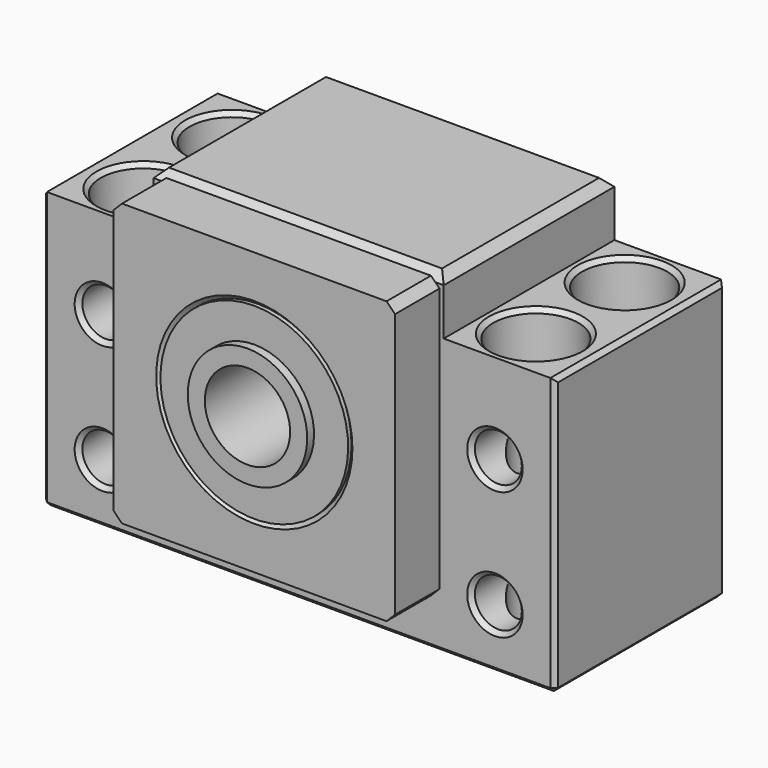
from build123d import *

# Parameters (mm, degrees)
SKETCH_R        = 11
PAD_DEPTH       = 12.5
SKETCH001_R     = 2.75
POCKET_DEPTH    = 25.001
SKETCH002_R     = 5
POCKET001_DEPTH = 7
SKETCH003_R     = 2.75
POCKET002_DEPTH = 39.001
CHAMFER_SIZE    = 1
CHAMFER005_SIZE = 0.5
CHAMFER006_SIZE = 0.5
CHAMFER007_SIZE = 0.5
CHAMFER008_SIZE = 0.5
CHAMFER009_SIZE = 0.5
SKETCH004_W     = 33
SKETCH004_H     = 33
SKETCH004_R     = 11
PAD001_DEPTH    = 6.5
CHAMFER003_SIZE = 1
CHAMFER004_SIZE = 0.5


with BuildPart() as bearing:
    # Sketch005 → Revolution (revolve)
    with BuildSketch(Plane.YZ):
        Polygon((-20, 27), (13.5, 27), (13.5, 29), (12.5, 29), (12.5, 33), (-19, 33), (-19, 29), (-20, 29), align=None)
    revolve(axis=Axis((0, -30, 22), (0, 1, 0)))


with BuildPart() as housing_bearing_hole_chamfer:
    # Sketch → Pad (new body, symmetric)
    with BuildSketch(Plane.XZ):
        Polygon((-30, 0), (-30, 32.5), (-17, 32.5), (-17, 39), (17, 39), (17, 32.5), (30, 32.5), (30, 0), align=None)
        with Locations((0, 22)):
            Circle(SKETCH_R, mode=Mode.SUBTRACT)
    extrude(amount=PAD_DEPTH, both=True)

    # Sketch001 → Pocket (cut, through all)
    with BuildSketch(Plane.XZ.offset(12.5)):
        with Locations((-23, 22)):
            Circle(SKETCH001_R)
        with Locations((23, 22)):
            Circle(SKETCH001_R)
        with Locations((-23, 7)):
            Circle(SKETCH001_R)
        with Locations((23, 7)):
            Circle(SKETCH001_R)
    extrude(amount=-POCKET_DEPTH, mode=Mode.SUBTRACT)

    # Sketch002 → Pocket001 (cut)
    with BuildSketch(Plane(origin=(0, 0, 32.5), x_dir=(-1, 0, 0), z_dir=(0, 0, 1))):
        with Locations((-23, 6.5)):
            Circle(SKETCH002_R)
        with Locations((23, 6.5)):
            Circle(SKETCH002_R)
        with Locations((-23, -6.5)):
            Circle(SKETCH002_R)
        with Locations((23, -6.5)):
            Circle(SKETCH002_R)
    extrude(amount=-POCKET001_DEPTH, mode=Mode.SUBTRACT)

    # Sketch003 → Pocket002 (cut, through all)
    with BuildSketch(Plane(origin=(0, 0, 0), x_dir=(1, 0, 0), z_dir=(0, 0, -1))):
        with Locations((-23, 6.5)):
            Circle(SKETCH003_R)
        with Locations((23, 6.5)):
            Circle(SKETCH003_R)
        with Locations((-23, -6.5)):
            Circle(SKETCH003_R)
        with Locations((23, -6.5)):
            Circle(SKETCH003_R)
    extrude(amount=-POCKET002_DEPTH, mode=Mode.SUBTRACT)

    # Chamfer
    chamfer_edges = [housing_bearing_hole_chamfer.edges().sort_by_distance(p)[0] for p in [
        (17, 0, 39),
        (0, 12.5, 39),
        (-17, 0, 39),
        (0, -12.5, 39),
    ]]
    chamfer(chamfer_edges, length=CHAMFER_SIZE)

    # Chamfer005
    chamfer005_edges = [housing_bearing_hole_chamfer.edges().sort_by_distance(p)[0] for p in [
        (30, -12.5, 16.25),
        (30, 0, 32.5),
        (30, 12.5, 16.25),
        (30, 0, 0),
        (0, -12.5, 0),
        (0, 12.5, 0),
        (-30, 0, 0),
        (-30, -12.5, 16.25),
        (-30, 12.5, 16.25),
        (-30, 0, 32.5),
    ]]
    chamfer(chamfer005_edges, length=CHAMFER005_SIZE)

    # Chamfer006
    chamfer006_edges = [housing_bearing_hole_chamfer.edges().sort_by_distance(p)[0] for p in [
        (-18, -6.5, 32.5),
        (-18, 6.5, 32.5),
        (28, 6.5, 32.5),
        (28, -6.5, 32.5),
    ]]
    chamfer(chamfer006_edges, length=CHAMFER006_SIZE)

    # Chamfer007
    chamfer007_edges = [housing_bearing_hole_chamfer.edges().sort_by_distance(p)[0] for p in [
        (-25.75, -6.5, 0),
        (20.25, -6.5, 0),
        (20.25, 6.5, 0),
        (-25.75, 6.5, 0),
    ]]
    chamfer(chamfer007_edges, length=CHAMFER007_SIZE)

    # Chamfer008
    chamfer008_edges = [housing_bearing_hole_chamfer.edges().sort_by_distance(p)[0] for p in [
        (20.25, -12.5, 22),
        (-25.75, -12.5, 22),
        (-25.75, -12.5, 7),
        (20.25, -12.5, 7),
        (20.25, 12.5, 22),
        (20.25, 12.5, 7),
        (-25.75, 12.5, 22),
        (-25.75, 12.5, 7),
    ]]
    chamfer(chamfer008_edges, length=CHAMFER008_SIZE)

    # Chamfer009
    chamfer009_edges = [housing_bearing_hole_chamfer.edges().sort_by_distance(p)[0] for p in [
        (-11, 12.5, 22),
    ]]
    chamfer(chamfer009_edges, length=CHAMFER009_SIZE)


with BuildPart() as bk10:
    # Sketch004 → Pad001 (new body)
    with BuildSketch(Plane.XZ.offset(12.5)):
        with Locations((0, 22)):
            Rectangle(SKETCH004_W, SKETCH004_H)
        with Locations((0, 22)):
            Circle(SKETCH004_R, mode=Mode.SUBTRACT)
    extrude(amount=PAD001_DEPTH)

    # Chamfer003
    chamfer003_edges = [bk10.edges().sort_by_distance(p)[0] for p in [
        (16.5, -15.75, 38.5),
        (-16.5, -15.75, 38.5),
        (-16.5, -15.75, 5.5),
        (16.5, -15.75, 5.5),
    ]]
    chamfer(chamfer003_edges, length=CHAMFER003_SIZE)

    # Chamfer004
    chamfer004_edges = [bk10.edges().sort_by_distance(p)[0] for p in [
        (-11, -19, 22),
    ]]
    chamfer(chamfer004_edges, length=CHAMFER004_SIZE)

    # Fusion: union housing-bearing-hole-chamfer
    add(housing_bearing_hole_chamfer.part)

    # Fusion001: union bearing
    add(bearing.part)


solid = bk10.part
